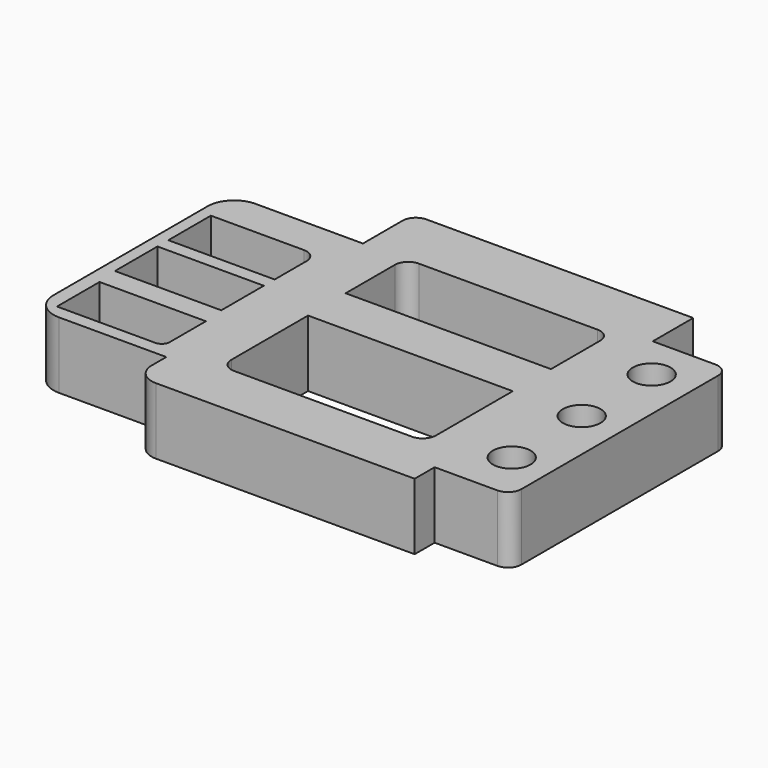
from build123d import *

# Parameters (mm, degrees)
F0_W     = 40
F0_H     = 20
F0_R     = 7.096656
F1_DEPTH = 25
F2_R     = 5
F3_DEPTH = 25


with BuildPart() as f1:
    # F0 (on Top) → F1 (new body)
    with BuildSketch(Plane.XY):
        with BuildLine():
            ThreePointArc((-133.453285, 45.853535), (-140.524353, 42.924603), (-143.453285, 35.853535))
            Line((-143.453285, 35.853535), (-143.453285, -36.596949))
            ThreePointArc((-143.453285, -36.596949), (-140.524353, -43.668016), (-133.453285, -46.596949))
            Line((-133.453285, -46.596949), (-93.023613, -46.596949))
            Line((-93.023613, -46.596949), (-93.023613, -53.490194))
            ThreePointArc((-93.023613, -53.490194), (-90.680467, -59.147049), (-85.023613, -61.490194))
            Line((-85.023613, -61.490194), (12.305611, -61.490194))
            Line((12.305611, -61.490194), (12.305611, -52.104292))
            Line((12.305611, -52.104292), (35.921164, -52.104292))
            ThreePointArc((35.921164, -52.104292), (39.456698, -50.639826), (40.921164, -47.104292))
            Line((40.921164, -47.104292), (40.921164, 45.453855))
            ThreePointArc((40.921164, 45.453855), (39.456698, 48.989389), (35.921164, 50.453855))
            Line((35.921164, 50.453855), (12.305611, 50.453855))
            Line((12.305611, 50.453855), (12.305611, 69.478564))
            Line((12.305611, 69.478564), (-88.023613, 69.478564))
            ThreePointArc((-88.023613, 69.478564), (-91.559147, 68.014098), (-93.023613, 64.478564))
            Line((-93.023613, 64.478564), (-93.023613, 45.853535))
            Line((-93.023613, 45.853535), (-133.453285, 45.853535))
        make_face()
        with BuildLine():
            Line((-138.153107, -41.573759), (-138.153107, -21.573759))
            Line((-138.153107, -21.573759), (-98.153107, -21.573759))
            Line((-98.153107, -21.573759), (-98.153107, -38.573759))
            ThreePointArc((-98.153107, -38.573759), (-99.031787, -40.695079), (-101.153107, -41.573759))
            Line((-101.153107, -41.573759), (-138.153107, -41.573759))
        make_face(mode=Mode.SUBTRACT)
        with Locations((-118.975651, -3.308505)):
            Rectangle(F0_W, F0_H, mode=Mode.SUBTRACT)
        with Locations((26.162848, -33.166352)):
            Circle(F0_R, mode=Mode.SUBTRACT)
        with BuildLine():
            Line((-76.998904, -36.091934), (-76.998904, 0))
            Line((-76.998904, 0), (0, 0))
            Line((0, 0), (0, -36.091934))
            ThreePointArc((0, -36.091934), (-1.464466, -39.627468), (-5, -41.091934))
            Line((-5, -41.091934), (-71.998904, -41.091934))
            ThreePointArc((-71.998904, -41.091934), (-75.534438, -39.627468), (-76.998904, -36.091934))
        make_face(mode=Mode.SUBTRACT)
        with Locations((25.7, 0.3)):
            Circle(F0_R, mode=Mode.SUBTRACT)
        with BuildLine():
            Line((-138.975651, 11.789608), (-138.975651, 31.789608))
            Line((-138.975651, 31.789608), (-103.975651, 31.789608))
            ThreePointArc((-103.975651, 31.789608), (-100.440117, 30.325142), (-98.975651, 26.789608))
            Line((-98.975651, 26.789608), (-98.975651, 11.789608))
            Line((-98.975651, 11.789608), (-138.975651, 11.789608))
        make_face(mode=Mode.SUBTRACT)
        with BuildLine():
            ThreePointArc((-77.227831, 41.128273), (-75.763365, 44.663807), (-72.227831, 46.128273))
            Line((-72.227831, 46.128273), (-5, 46.128273))
            ThreePointArc((-5, 46.128273), (-1.464466, 44.663807), (0, 41.128273))
            Line((0, 41.128273), (0, 17.970568))
            Line((0, 17.970568), (-77.227831, 17.970568))
            Line((-77.227831, 17.970568), (-77.227831, 41.128273))
        make_face(mode=Mode.SUBTRACT)
        with Locations((25.237152, 33.766352)):
            Circle(F0_R, mode=Mode.SUBTRACT)
    extrude(amount=F1_DEPTH)

    # F2
    f2_edges = [f1.edges().sort_by_distance(p)[0] for p in [
        (12.305611, -61.490194, 12.5),
        (-85.023613, -61.490194, 12.5),
    ]]
    fillet(f2_edges, radius=F2_R)

    # F0 (on Top) → F3 (join)
    with BuildSketch(Plane.XY):
        with BuildLine():
            ThreePointArc((-133.453285, 45.853535), (-140.524353, 42.924603), (-143.453285, 35.853535))
            Line((-143.453285, 35.853535), (-143.453285, -36.596949))
            ThreePointArc((-143.453285, -36.596949), (-140.524353, -43.668016), (-133.453285, -46.596949))
            Line((-133.453285, -46.596949), (-93.023613, -46.596949))
            Line((-93.023613, -46.596949), (-93.023613, -53.490194))
            ThreePointArc((-93.023613, -53.490194), (-90.680467, -59.147049), (-85.023613, -61.490194))
            Line((-85.023613, -61.490194), (12.305611, -61.490194))
            Line((12.305611, -61.490194), (12.305611, -52.104292))
            Line((12.305611, -52.104292), (35.921164, -52.104292))
            ThreePointArc((35.921164, -52.104292), (39.456698, -50.639826), (40.921164, -47.104292))
            Line((40.921164, -47.104292), (40.921164, 45.453855))
            ThreePointArc((40.921164, 45.453855), (39.456698, 48.989389), (35.921164, 50.453855))
            Line((35.921164, 50.453855), (12.305611, 50.453855))
            Line((12.305611, 50.453855), (12.305611, 69.478564))
            Line((12.305611, 69.478564), (-88.023613, 69.478564))
            ThreePointArc((-88.023613, 69.478564), (-91.559147, 68.014098), (-93.023613, 64.478564))
            Line((-93.023613, 64.478564), (-93.023613, 45.853535))
            Line((-93.023613, 45.853535), (-133.453285, 45.853535))
        make_face()
        with BuildLine():
            Line((-138.153107, -41.573759), (-138.153107, -21.573759))
            Line((-138.153107, -21.573759), (-98.153107, -21.573759))
            Line((-98.153107, -21.573759), (-98.153107, -38.573759))
            ThreePointArc((-98.153107, -38.573759), (-99.031787, -40.695079), (-101.153107, -41.573759))
            Line((-101.153107, -41.573759), (-138.153107, -41.573759))
        make_face(mode=Mode.SUBTRACT)
        with Locations((-118.975651, -3.308505)):
            Rectangle(F0_W, F0_H, mode=Mode.SUBTRACT)
        with Locations((26.162848, -33.166352)):
            Circle(F0_R, mode=Mode.SUBTRACT)
        with BuildLine():
            Line((-76.998904, -36.091934), (-76.998904, 0))
            Line((-76.998904, 0), (0, 0))
            Line((0, 0), (0, -36.091934))
            ThreePointArc((0, -36.091934), (-1.464466, -39.627468), (-5, -41.091934))
            Line((-5, -41.091934), (-71.998904, -41.091934))
            ThreePointArc((-71.998904, -41.091934), (-75.534438, -39.627468), (-76.998904, -36.091934))
        make_face(mode=Mode.SUBTRACT)
        with Locations((25.7, 0.3)):
            Circle(F0_R, mode=Mode.SUBTRACT)
        with BuildLine():
            Line((-138.975651, 11.789608), (-138.975651, 31.789608))
            Line((-138.975651, 31.789608), (-103.975651, 31.789608))
            ThreePointArc((-103.975651, 31.789608), (-100.440117, 30.325142), (-98.975651, 26.789608))
            Line((-98.975651, 26.789608), (-98.975651, 11.789608))
            Line((-98.975651, 11.789608), (-138.975651, 11.789608))
        make_face(mode=Mode.SUBTRACT)
        with BuildLine():
            ThreePointArc((-77.227831, 41.128273), (-75.763365, 44.663807), (-72.227831, 46.128273))
            Line((-72.227831, 46.128273), (-5, 46.128273))
            ThreePointArc((-5, 46.128273), (-1.464466, 44.663807), (0, 41.128273))
            Line((0, 41.128273), (0, 17.970568))
            Line((0, 17.970568), (-77.227831, 17.970568))
            Line((-77.227831, 17.970568), (-77.227831, 41.128273))
        make_face(mode=Mode.SUBTRACT)
        with Locations((25.237152, 33.766352)):
            Circle(F0_R, mode=Mode.SUBTRACT)
    extrude(amount=F3_DEPTH)


solid = f1.part
